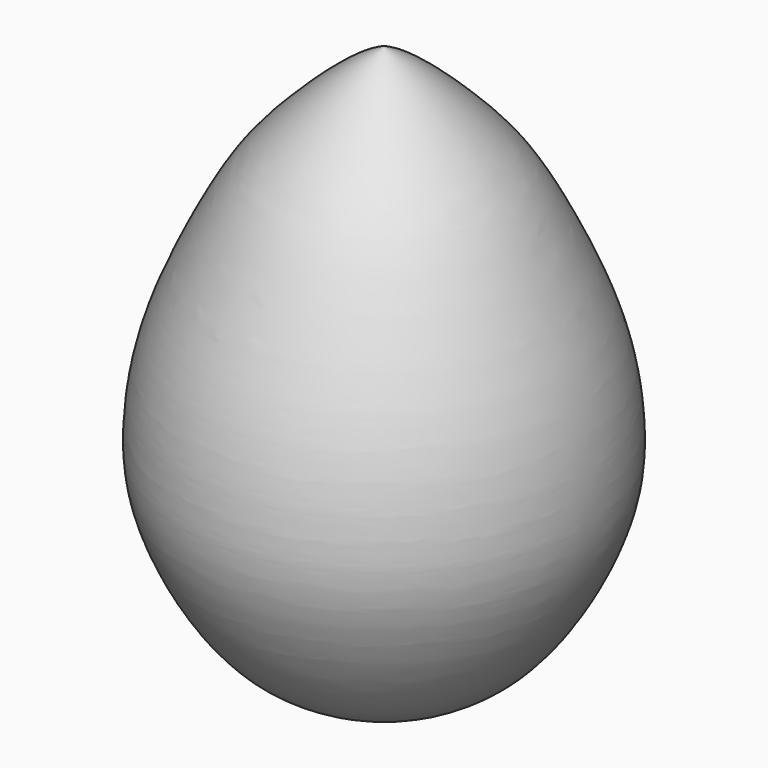
from build123d import *


with BuildPart() as f1:
    # F0 (on Front) → F1 (revolve)
    with BuildSketch(Plane.XZ):
        with BuildLine():
            add(Edge.make_bspline(
                [(0, 12.5), (1.0992277327, 12.0931589291), (3.4788903415, 9.9352517548), (5.0611843947, 8.1691368154), (6.2938799065, 6.1754081255), (8.2117838743, 2.1670629345), (8.8629982544, -1.0624453737), (8.9013172283, -3.7288927615), (8.2414814004, -5.9975551546), (6.8895765422, -8.6382110545), (4.5049591963, -11.460530085), (1.0906940857, -12.4446720767), (0, -12.5)],
                knots=[0, 0, 0, 0, 0.1151762872, 0.2021108996, 0.2862977941, 0.4037344994, 0.5063335252, 0.5955815782, 0.6802562377, 0.7751302237, 0.8832635748, 1, 1, 1, 1], degree=3))
            Line((0, 12.5), (0, -12.5))
        make_face()
    revolve(axis=Axis((0, 0, 0), (0, 0, -1)))


solid = f1.part
